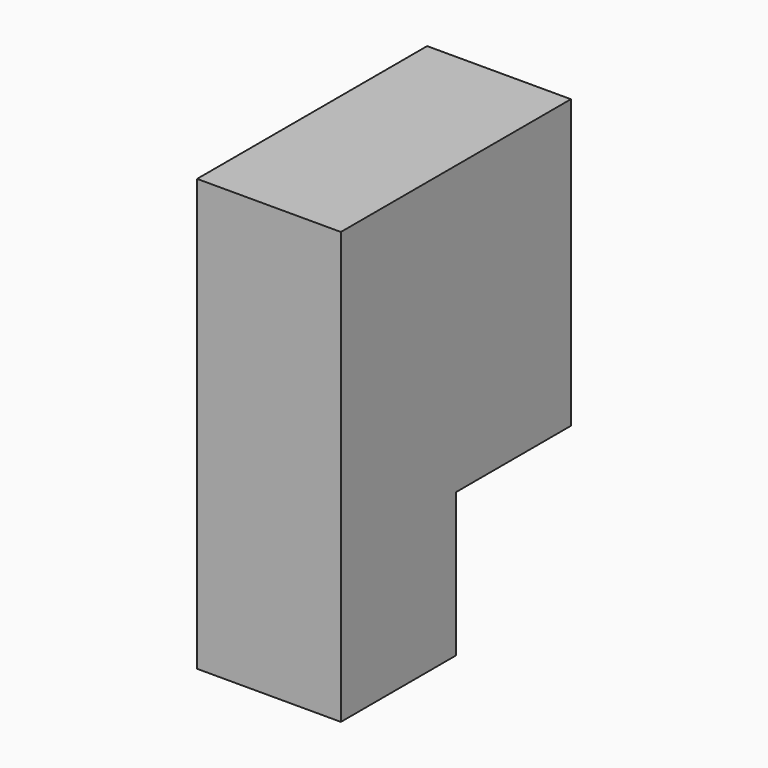
from build123d import *

# Parameters (mm, degrees)
F0_W      = 19.05
F0_H      = 19.05
F1_DEPTH  = 19.05
F2_W      = 19.05
F2_H      = 19.05
F3_DEPTH  = 19.05
F4_W      = 19.05
F4_H      = 19.05
F5_DEPTH  = 19.05
F6_W      = 19.05
F6_H      = 19.05
F7_DEPTH  = 19.05
F7_FACE_W = 19.05
F7_FACE_H = 19.05
F8_DEPTH  = 19.05


with BuildPart() as f1:
    # F0 (on Top) → F1 (new body)
    with BuildSketch(Plane.XY):
        with Locations((9.525, 9.525)):
            Rectangle(F0_W, F0_H)
    extrude(amount=F1_DEPTH)

    # F2 (on face) → F3 (join)
    with BuildSketch(Plane.XY.offset(19.05)):
        with Locations((9.525, 9.525)):
            Rectangle(F2_W, F2_H)
    extrude(amount=F3_DEPTH)

    # F4 (on face) → F5 (join)
    with BuildSketch(Plane(origin=(0, 19.05, 0), x_dir=(-1, 0, 0), z_dir=(0, 1, 0))):
        with Locations((-9.525, 28.575)):
            Rectangle(F4_W, F4_H)
    extrude(amount=F5_DEPTH)

    # F6 (on face) → F7 (join)
    with BuildSketch(Plane.XY.offset(38.1)):
        with Locations((9.525, 9.525)):
            Rectangle(F6_W, F6_H)
    extrude(amount=F7_DEPTH)

    # F7_face (on face) → F8 (join)
    with BuildSketch(Plane(origin=(9.525, 19.05, 47.625), x_dir=(-1, 0, 0), z_dir=(0, 1, 0))):
        Rectangle(F7_FACE_W, F7_FACE_H)
    extrude(amount=F8_DEPTH)


solid = f1.part
